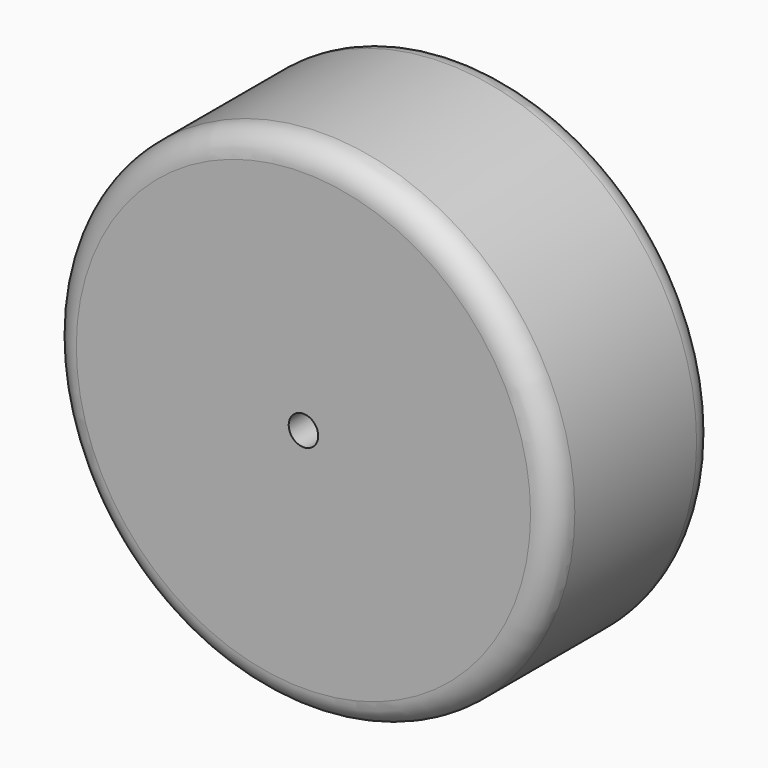
from build123d import *

# Parameters (mm, degrees)
F0_R     = 32.4993
F1_DEPTH = 26
F2_R     = 3.175
F4_D     = 3.81


with BuildPart() as f1:
    # F0 (on Front) → F1 (new body)
    with BuildSketch(Plane.XZ):
        Circle(F0_R)
    extrude(amount=F1_DEPTH)

    # F2
    f2_edges = [f1.edges().sort_by_distance(p)[0] for p in [
        (-32.4993, -26, 0),
        (-32.4993, 0, 0),
    ]]
    fillet(f2_edges, radius=F2_R)

    # F4 (through all)
    with Locations(Plane.XZ.offset(26)):
        with Locations((0, 0)):
            Hole(F4_D / 2)


solid = f1.part
